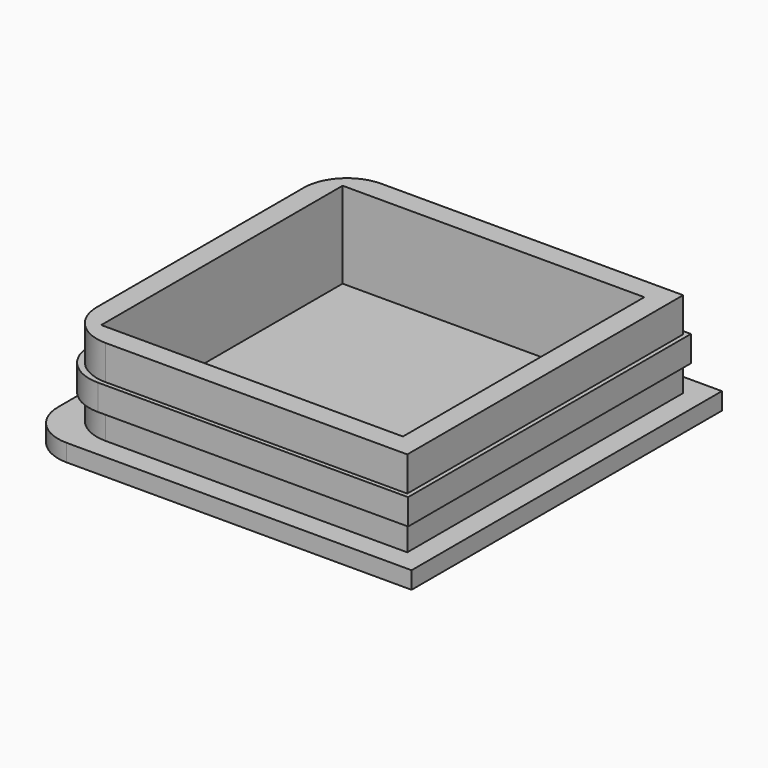
from build123d import *

# Parameters (mm, degrees)
F0_W     = 45
F0_H     = 45
F1_DEPTH = 2
F2_W     = 40
F2_H     = 40
F2_W_2   = 35
F2_H_2   = 35
F3_DEPTH = 10
F5_START = 3
F4_W     = 41
F4_H     = 41
F4_W_2   = 35
F4_H_2   = 35
F5_DEPTH = 3
F6_R     = 5


with BuildPart() as f1:
    # F0 (on Top) → F1 (new body)
    with BuildSketch(Plane.XY):
        Rectangle(F0_W, F0_H)
    extrude(amount=F1_DEPTH)

    # F2 (on face) → F3 (join)
    with BuildSketch(Plane.XY.offset(2)):
        Rectangle(F2_W, F2_H)
        Rectangle(F2_W_2, F2_H_2, mode=Mode.SUBTRACT)
    extrude(amount=F3_DEPTH)

    # F4 (on face) → F5 (join)
    with BuildSketch(Plane.XY.offset(2).offset(F5_START)):
        Rectangle(F4_W, F4_H)
        Rectangle(F4_W_2, F4_H_2, mode=Mode.SUBTRACT)
    extrude(amount=F5_DEPTH)

    # F6
    f6_edges = [f1.edges().sort_by_distance(p)[0] for p in [
        (-22.5, 22.5, 1),
        (-20, 20, 3.5),
        (-20.5, 20.5, 6.5),
        (-20, 20, 10),
        (-22.5, -22.5, 1),
        (-20, -20, 3.5),
        (-20.5, -20.5, 6.5),
        (-20, -20, 10),
    ]]
    fillet(f6_edges, radius=F6_R)


solid = f1.part
